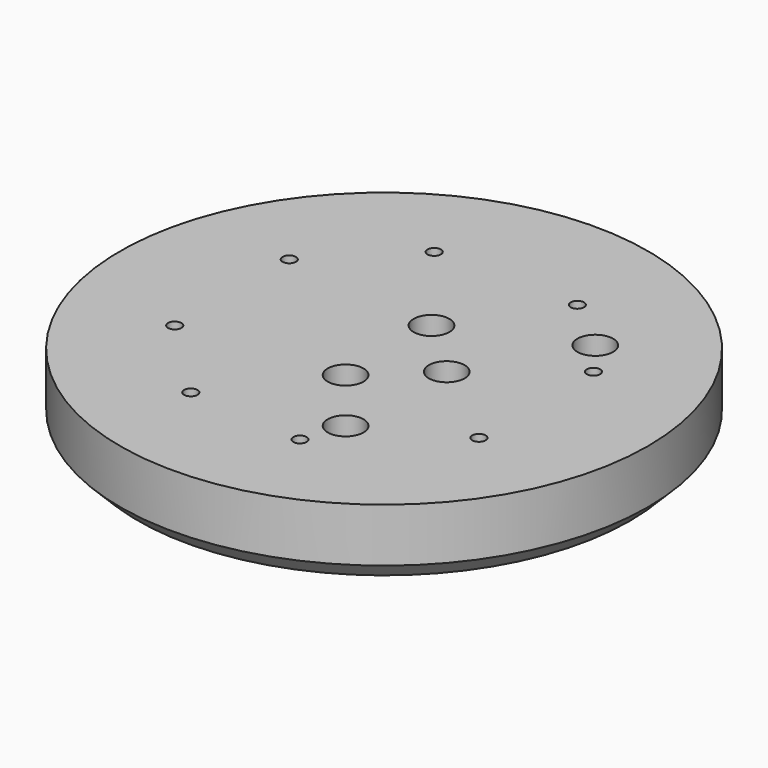
from build123d import *

# Parameters (mm, degrees)
CYLINDER1648_R     = 4
CYLINDER1648_DEPTH = 100
CYLINDER1647_R     = 4
CYLINDER1647_DEPTH = 100
CYLINDER1631_R     = 1.5
CYLINDER1631_DEPTH = 100
CYLINDER1632_R     = 1.5
CYLINDER1632_DEPTH = 100
CYLINDER1633_R     = 1.5
CYLINDER1633_DEPTH = 100
CYLINDER1634_R     = 1.5
CYLINDER1634_DEPTH = 100
CYLINDER1635_R     = 1.5
CYLINDER1635_DEPTH = 100
CYLINDER1636_R     = 1.5
CYLINDER1636_DEPTH = 100
CYLINDER1637_R     = 1.5
CYLINDER1637_DEPTH = 100
CYLINDER1630_R     = 1.5
CYLINDER1630_DEPTH = 100
CYLINDER1651_R     = 4
CYLINDER1651_DEPTH = 100
CYLINDER1649_R     = 4
CYLINDER1649_DEPTH = 100
CYLINDER1652_R     = 4
CYLINDER1652_DEPTH = 100
CYLINDER1653_R     = 4
CYLINDER1653_DEPTH = 100
CYLINDER1654_R     = 4
CYLINDER1654_DEPTH = 100
CYLINDER1655_R     = 4
CYLINDER1655_DEPTH = 100
CYLINDER1656_R     = 4
CYLINDER1656_DEPTH = 100
CYLINDER1650_R     = 4
CYLINDER1650_DEPTH = 100
CYLINDER1640_R     = 4
CYLINDER1640_DEPTH = 20
CYLINDER1641_R     = 4
CYLINDER1641_DEPTH = 20
CYLINDER1642_R     = 4
CYLINDER1642_DEPTH = 20
CYLINDER1643_R     = 4
CYLINDER1643_DEPTH = 40
CYLINDER1644_R     = 4
CYLINDER1644_DEPTH = 40
CYLINDER1645_R     = 4
CYLINDER1645_DEPTH = 40
CYLINDER1646_R     = 4
CYLINDER1646_DEPTH = 40
CYLINDER1639_R     = 4
CYLINDER1639_DEPTH = 20
CYLINDER1638_R     = 59
CYLINDER1638_DEPTH = 16
CHAMFER054_SIZE    = 4


with BuildPart() as obj1:
    # Cylinder1648 → Cylinder1648 (new body)
    with BuildSketch(Plane(origin=(14, 0, -18), x_dir=(1, 0, 0), z_dir=(0, 0, 1))):
        Circle(CYLINDER1648_R)
    extrude(amount=CYLINDER1648_DEPTH)


with BuildPart() as obj2:
    # Cylinder1647 → Cylinder1647 (new body)
    with BuildSketch(Plane(origin=(90, 0, -18), x_dir=(1, 0, 0), z_dir=(0, 0, 1))):
        Circle(CYLINDER1647_R)
    extrude(amount=CYLINDER1647_DEPTH)

    # Compound931: union obj1
    add(obj1.part)


with BuildPart() as obj3:
    # Cylinder1631 → Cylinder1631 (new body)
    with BuildSketch(Plane(origin=(-34, -16, -60), x_dir=(1, 0, 0), z_dir=(0, 0, 1))):
        Circle(CYLINDER1631_R)
    extrude(amount=CYLINDER1631_DEPTH)


with BuildPart() as obj4:
    # Cylinder1632 → Cylinder1632 (new body)
    with BuildSketch(Plane(origin=(34, -16, -60), x_dir=(1, 0, 0), z_dir=(0, 0, 1))):
        Circle(CYLINDER1632_R)
    extrude(amount=CYLINDER1632_DEPTH)


with BuildPart() as obj5:
    # Cylinder1633 → Cylinder1633 (new body)
    with BuildSketch(Plane(origin=(34, 16, -60), x_dir=(1, 0, 0), z_dir=(0, 0, 1))):
        Circle(CYLINDER1633_R)
    extrude(amount=CYLINDER1633_DEPTH)


with BuildPart() as obj6:
    # Cylinder1634 → Cylinder1634 (new body)
    with BuildSketch(Plane(origin=(16, 34, -60), x_dir=(1, 0, 0), z_dir=(0, 0, 1))):
        Circle(CYLINDER1634_R)
    extrude(amount=CYLINDER1634_DEPTH)


with BuildPart() as obj7:
    # Cylinder1635 → Cylinder1635 (new body)
    with BuildSketch(Plane(origin=(10, -36, -60), x_dir=(1, 0, 0), z_dir=(0, 0, 1))):
        Circle(CYLINDER1635_R)
    extrude(amount=CYLINDER1635_DEPTH)


with BuildPart() as obj8:
    # Cylinder1636 → Cylinder1636 (new body)
    with BuildSketch(Plane(origin=(-16, -34, -60), x_dir=(1, 0, 0), z_dir=(0, 0, 1))):
        Circle(CYLINDER1636_R)
    extrude(amount=CYLINDER1636_DEPTH)


with BuildPart() as obj9:
    # Cylinder1637 → Cylinder1637 (new body)
    with BuildSketch(Plane(origin=(-16, 34, -60), x_dir=(1, 0, 0), z_dir=(0, 0, 1))):
        Circle(CYLINDER1637_R)
    extrude(amount=CYLINDER1637_DEPTH)


with BuildPart() as obj10:
    # Cylinder1630 → Cylinder1630 (new body)
    with BuildSketch(Plane(origin=(-34, 16, -60), x_dir=(1, 0, 0), z_dir=(0, 0, 1))):
        Circle(CYLINDER1630_R)
    extrude(amount=CYLINDER1630_DEPTH)

    # Compound928: union obj3, obj4, obj5, obj6, obj7, obj8, obj9
    add(obj3.part)
    add(obj4.part)
    add(obj5.part)
    add(obj6.part)
    add(obj7.part)
    add(obj8.part)
    add(obj9.part)


with BuildPart() as obj11:
    # Cylinder1651 → Cylinder1651 (new body)
    with BuildSketch(Plane(origin=(-16, 34, -90), x_dir=(1, 0, 0), z_dir=(0, 0, 1))):
        Circle(CYLINDER1651_R)
    extrude(amount=CYLINDER1651_DEPTH)


with BuildPart() as obj12:
    # Cylinder1649 → Cylinder1649 (new body)
    with BuildSketch(Plane(origin=(-16, -34, -90), x_dir=(1, 0, 0), z_dir=(0, 0, 1))):
        Circle(CYLINDER1649_R)
    extrude(amount=CYLINDER1649_DEPTH)


with BuildPart() as obj13:
    # Cylinder1652 → Cylinder1652 (new body)
    with BuildSketch(Plane(origin=(34, -16, -90), x_dir=(1, 0, 0), z_dir=(0, 0, 1))):
        Circle(CYLINDER1652_R)
    extrude(amount=CYLINDER1652_DEPTH)


with BuildPart() as obj14:
    # Cylinder1653 → Cylinder1653 (new body)
    with BuildSketch(Plane(origin=(16, 34, -90), x_dir=(1, 0, 0), z_dir=(0, 0, 1))):
        Circle(CYLINDER1653_R)
    extrude(amount=CYLINDER1653_DEPTH)


with BuildPart() as obj15:
    # Cylinder1654 → Cylinder1654 (new body)
    with BuildSketch(Plane(origin=(10, -36, -90), x_dir=(1, 0, 0), z_dir=(0, 0, 1))):
        Circle(CYLINDER1654_R)
    extrude(amount=CYLINDER1654_DEPTH)


with BuildPart() as obj16:
    # Cylinder1655 → Cylinder1655 (new body)
    with BuildSketch(Plane(origin=(-34, 16, -90), x_dir=(1, 0, 0), z_dir=(0, 0, 1))):
        Circle(CYLINDER1655_R)
    extrude(amount=CYLINDER1655_DEPTH)


with BuildPart() as obj17:
    # Cylinder1656 → Cylinder1656 (new body)
    with BuildSketch(Plane(origin=(34, 16, -90), x_dir=(1, 0, 0), z_dir=(0, 0, 1))):
        Circle(CYLINDER1656_R)
    extrude(amount=CYLINDER1656_DEPTH)


with BuildPart() as obj18:
    # Cylinder1650 → Cylinder1650 (new body)
    with BuildSketch(Plane(origin=(-34, -16, -90), x_dir=(1, 0, 0), z_dir=(0, 0, 1))):
        Circle(CYLINDER1650_R)
    extrude(amount=CYLINDER1650_DEPTH)

    # Compound930: union obj11, obj12, obj13, obj14, obj15, obj16, obj17
    add(obj11.part)
    add(obj12.part)
    add(obj13.part)
    add(obj14.part)
    add(obj15.part)
    add(obj16.part)
    add(obj17.part)


with BuildPart() as obj19:
    # Cylinder1640 → Cylinder1640 (new body)
    with BuildSketch(Plane(origin=(103, 12, -20), x_dir=(1, 0, 0), z_dir=(0, 0, 1))):
        Circle(CYLINDER1640_R)
    extrude(amount=CYLINDER1640_DEPTH)


with BuildPart() as obj20:
    # Cylinder1641 → Cylinder1641 (new body)
    with BuildSketch(Plane(origin=(76, 24, -18), x_dir=(1, 0, 0), z_dir=(0, 0, 1))):
        Circle(CYLINDER1641_R)
    extrude(amount=CYLINDER1641_DEPTH)


with BuildPart() as obj21:
    # Cylinder1642 → Cylinder1642 (new body)
    with BuildSketch(Plane(origin=(91, -27, -18), x_dir=(1, 0, 0), z_dir=(0, 0, 1))):
        Circle(CYLINDER1642_R)
    extrude(amount=CYLINDER1642_DEPTH)


with BuildPart() as obj22:
    # Cylinder1643 → Cylinder1643 (new body)
    with BuildSketch(Plane(origin=(13, -27, -18), x_dir=(1, 0, 0), z_dir=(0, 0, 1))):
        Circle(CYLINDER1643_R)
    extrude(amount=CYLINDER1643_DEPTH)


with BuildPart() as obj23:
    # Cylinder1644 → Cylinder1644 (new body)
    with BuildSketch(Plane(origin=(28, 24, -18), x_dir=(1, 0, 0), z_dir=(0, 0, 1))):
        Circle(CYLINDER1644_R)
    extrude(amount=CYLINDER1644_DEPTH)


with BuildPart() as obj24:
    # Cylinder1645 → Cylinder1645 (new body)
    with BuildSketch(Plane(origin=(1, -12, -18), x_dir=(1, 0, 0), z_dir=(0, 0, 1))):
        Circle(CYLINDER1645_R)
    extrude(amount=CYLINDER1645_DEPTH)


with BuildPart() as obj25:
    # Cylinder1646 → Cylinder1646 (new body)
    with BuildSketch(Plane(origin=(1, 12, -18), x_dir=(1, 0, 0), z_dir=(0, 0, 1))):
        Circle(CYLINDER1646_R)
    extrude(amount=CYLINDER1646_DEPTH)


with BuildPart() as obj26:
    # Cylinder1639 → Cylinder1639 (new body)
    with BuildSketch(Plane(origin=(103, -12, -20), x_dir=(1, 0, 0), z_dir=(0, 0, 1))):
        Circle(CYLINDER1639_R)
    extrude(amount=CYLINDER1639_DEPTH)

    # Compound929: union obj19, obj20, obj21, obj22, obj23, obj24, obj25
    add(obj19.part)
    add(obj20.part)
    add(obj21.part)
    add(obj22.part)
    add(obj23.part)
    add(obj24.part)
    add(obj25.part)


with BuildPart() as cut575:
    # Cylinder1638 → Cylinder1638 (new body)
    with BuildSketch(Plane.XY.offset(2)):
        Circle(CYLINDER1638_R)
    extrude(amount=CYLINDER1638_DEPTH)

    # Cut572: cut obj26
    add(obj26.part, mode=Mode.SUBTRACT)

    # Cut573: cut obj18
    add(obj18.part, mode=Mode.SUBTRACT)

    # Cut574: cut obj10
    add(obj10.part, mode=Mode.SUBTRACT)

    # Chamfer054
    chamfer054_edges = [cut575.edges().sort_by_distance(p)[0] for p in [
        (-59, 0, 2),
    ]]
    chamfer(chamfer054_edges, length=CHAMFER054_SIZE)

    # Cut575: cut obj2
    add(obj2.part, mode=Mode.SUBTRACT)


with BuildPart() as cut575_1:
    # Cut575 placement: moved
    add(cut575.part.moved(Location((0, 0, 14))))


solid = cut575_1.part
